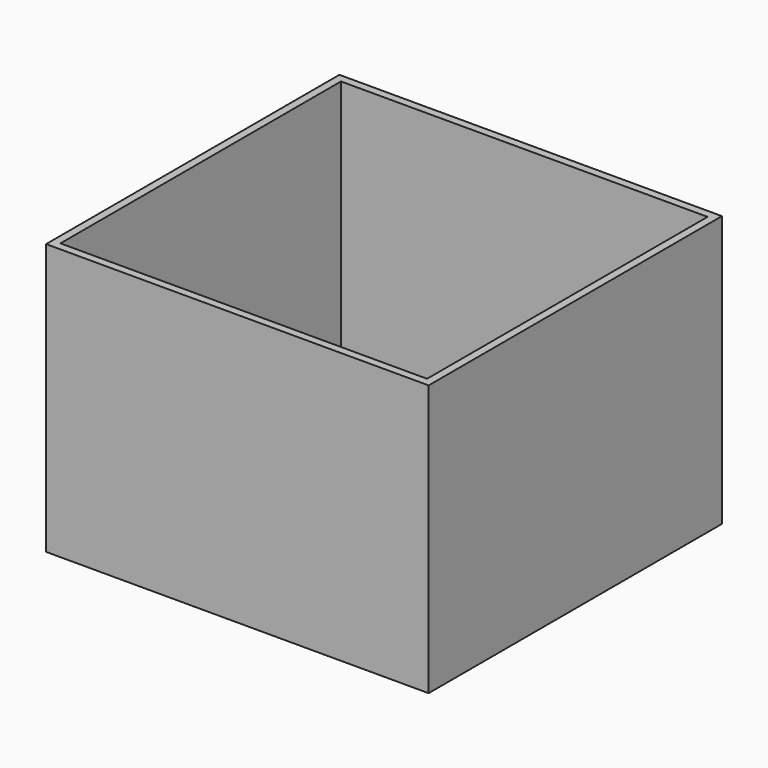
from build123d import *

# Parameters (mm, degrees)
SKETCH_W     = 48
SKETCH_H     = 46
SKETCH_W_2   = 46
SKETCH_H_2   = 44
PAD_DEPTH    = 34
SKETCH001_W  = 5.2
SKETCH001_H  = 7
POCKET_DEPTH = 1


with BuildPart() as part:
    # Sketch → Pad (new body)
    with BuildSketch(Plane.XY):
        with Locations((23, -22)):
            Rectangle(SKETCH_W, SKETCH_H)
        with Locations((23, -22)):
            Rectangle(SKETCH_W_2, SKETCH_H_2, mode=Mode.SUBTRACT)
    extrude(amount=PAD_DEPTH)

    # Sketch001 → Pocket (cut)
    with BuildSketch(Plane(origin=(0, 1, 0), x_dir=(-1, 0, 0), z_dir=(0, 1, 0))):
        with Locations((-23, 3.5)):
            Rectangle(SKETCH001_W, SKETCH001_H)
    extrude(amount=-POCKET_DEPTH, mode=Mode.SUBTRACT)


solid = part.part
